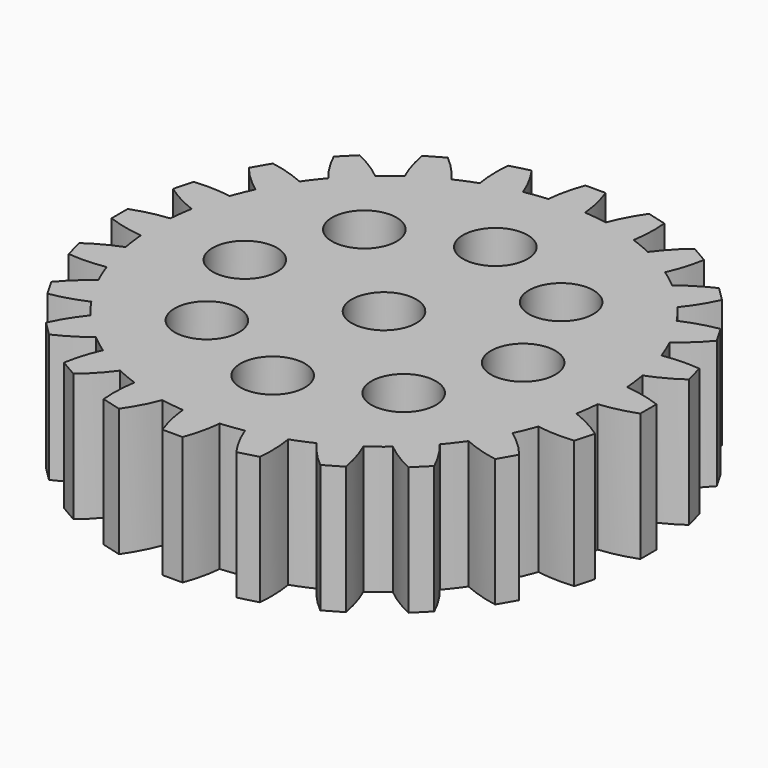
from build123d import *

# Parameters (mm, degrees)
F0_R     = 1.6
F1_DEPTH = 6.35


with BuildPart() as f1:
    # F0 (on Top) → F1 (new body)
    with BuildSketch(Plane.XY):
        with BuildLine():
            Line((0.5, 13.107544), (-0.5, 13.107544))
            ThreePointArc((-0.5, 13.107544), (-0.764193, 12.229191), (-0.914082, 11.324295))
            ThreePointArc((-0.914082, 11.324295), (-1.482925, 11.263931), (-2.048008, 11.175011))
            ThreePointArc((-2.048008, 11.175011), (-2.426993, 12.010279), (-2.909519, 12.790325))
            Line((-2.909519, 12.790325), (-3.875445, 12.531506))
            ThreePointArc((-3.875445, 12.531506), (-3.903302, 11.614704), (-3.813879, 10.701847))
            ThreePointArc((-3.813879, 10.701847), (-4.347715, 10.496313), (-4.870529, 10.264168))
            ThreePointArc((-4.870529, 10.264168), (-5.452785, 10.972887), (-6.12076, 11.601467))
            Line((-6.12076, 11.601467), (-6.986785, 11.101467))
            ThreePointArc((-6.986785, 11.101467), (-6.776406, 10.208693), (-6.453766, 9.350086))
            ThreePointArc((-6.453766, 9.350086), (-6.916216, 9.013388), (-7.361132, 8.65384))
            ThreePointArc((-7.361132, 8.65384), (-8.106978, 9.18771), (-8.91488, 9.621987))
            Line((-8.91488, 9.621987), (-9.621987, 8.91488))
            ThreePointArc((-9.621987, 8.91488), (-9.18771, 8.106978), (-8.65384, 7.361132))
            ThreePointArc((-8.65384, 7.361132), (-9.013388, 6.916216), (-9.350086, 6.453766))
            ThreePointArc((-9.350086, 6.453766), (-10.208693, 6.776406), (-11.101467, 6.986785))
            Line((-11.101467, 6.986785), (-11.601467, 6.12076))
            ThreePointArc((-11.601467, 6.12076), (-10.972887, 5.452785), (-10.264168, 4.870529))
            ThreePointArc((-10.264168, 4.870529), (-10.496313, 4.347715), (-10.701847, 3.813879))
            ThreePointArc((-10.701847, 3.813879), (-11.614704, 3.903302), (-12.531506, 3.875445))
            Line((-12.531506, 3.875445), (-12.790325, 2.909519))
            ThreePointArc((-12.790325, 2.909519), (-12.010279, 2.426993), (-11.175011, 2.048008))
            ThreePointArc((-11.175011, 2.048008), (-11.263931, 1.482925), (-11.324295, 0.914082))
            ThreePointArc((-11.324295, 0.914082), (-12.229191, 0.764193), (-13.107544, 0.5))
            Line((-13.107544, 0.5), (-13.107544, -0.5))
            ThreePointArc((-13.107544, -0.5), (-12.229191, -0.764193), (-11.324295, -0.914082))
            ThreePointArc((-11.324295, -0.914082), (-11.263931, -1.482925), (-11.175011, -2.048008))
            ThreePointArc((-11.175011, -2.048008), (-12.010279, -2.426993), (-12.790325, -2.909519))
            Line((-12.790325, -2.909519), (-12.531506, -3.875445))
            ThreePointArc((-12.531506, -3.875445), (-11.614704, -3.903302), (-10.701847, -3.813879))
            ThreePointArc((-10.701847, -3.813879), (-10.496313, -4.347715), (-10.264168, -4.870529))
            ThreePointArc((-10.264168, -4.870529), (-10.972887, -5.452785), (-11.601467, -6.12076))
            Line((-11.601467, -6.12076), (-11.101467, -6.986785))
            ThreePointArc((-11.101467, -6.986785), (-10.208693, -6.776406), (-9.350086, -6.453766))
            ThreePointArc((-9.350086, -6.453766), (-9.013388, -6.916216), (-8.65384, -7.361132))
            ThreePointArc((-8.65384, -7.361132), (-9.18771, -8.106978), (-9.621987, -8.91488))
            Line((-9.621987, -8.91488), (-8.91488, -9.621987))
            ThreePointArc((-8.91488, -9.621987), (-8.106978, -9.18771), (-7.361132, -8.65384))
            ThreePointArc((-7.361132, -8.65384), (-6.916216, -9.013388), (-6.453766, -9.350086))
            ThreePointArc((-6.453766, -9.350086), (-6.776406, -10.208693), (-6.986785, -11.101467))
            Line((-6.986785, -11.101467), (-6.12076, -11.601467))
            ThreePointArc((-6.12076, -11.601467), (-5.452785, -10.972887), (-4.870529, -10.264168))
            ThreePointArc((-4.870529, -10.264168), (-4.347715, -10.496313), (-3.813879, -10.701847))
            ThreePointArc((-3.813879, -10.701847), (-3.903302, -11.614704), (-3.875445, -12.531506))
            Line((-3.875445, -12.531506), (-2.909519, -12.790325))
            ThreePointArc((-2.909519, -12.790325), (-2.426993, -12.010279), (-2.048008, -11.175011))
            ThreePointArc((-2.048008, -11.175011), (-1.482925, -11.263931), (-0.914082, -11.324295))
            ThreePointArc((-0.914082, -11.324295), (-0.764193, -12.229191), (-0.5, -13.107544))
            Line((-0.5, -13.107544), (0.5, -13.107544))
            ThreePointArc((0.5, -13.107544), (0.764193, -12.229191), (0.914082, -11.324295))
            ThreePointArc((0.914082, -11.324295), (1.482925, -11.263931), (2.048008, -11.175011))
            ThreePointArc((2.048008, -11.175011), (2.426993, -12.010279), (2.909519, -12.790325))
            Line((2.909519, -12.790325), (3.875445, -12.531506))
            ThreePointArc((3.875445, -12.531506), (3.903302, -11.614704), (3.813879, -10.701847))
            ThreePointArc((3.813879, -10.701847), (4.347715, -10.496313), (4.870529, -10.264168))
            ThreePointArc((4.870529, -10.264168), (5.452785, -10.972887), (6.12076, -11.601467))
            Line((6.12076, -11.601467), (6.986785, -11.101467))
            ThreePointArc((6.986785, -11.101467), (6.776406, -10.208693), (6.453766, -9.350086))
            ThreePointArc((6.453766, -9.350086), (6.916216, -9.013388), (7.361132, -8.65384))
            ThreePointArc((7.361132, -8.65384), (8.106978, -9.18771), (8.91488, -9.621987))
            Line((8.91488, -9.621987), (9.621987, -8.91488))
            ThreePointArc((9.621987, -8.91488), (9.18771, -8.106978), (8.65384, -7.361132))
            ThreePointArc((8.65384, -7.361132), (9.013388, -6.916216), (9.350086, -6.453766))
            ThreePointArc((9.350086, -6.453766), (10.208693, -6.776406), (11.101467, -6.986785))
            Line((11.101467, -6.986785), (11.601467, -6.12076))
            ThreePointArc((11.601467, -6.12076), (10.972887, -5.452785), (10.264168, -4.870529))
            ThreePointArc((10.264168, -4.870529), (10.496313, -4.347715), (10.701847, -3.813879))
            ThreePointArc((10.701847, -3.813879), (11.614704, -3.903302), (12.531506, -3.875445))
            Line((12.531506, -3.875445), (12.790325, -2.909519))
            ThreePointArc((12.790325, -2.909519), (12.010279, -2.426993), (11.175011, -2.048008))
            ThreePointArc((11.175011, -2.048008), (11.263931, -1.482925), (11.324295, -0.914082))
            ThreePointArc((11.324295, -0.914082), (12.229191, -0.764193), (13.107544, -0.5))
            Line((13.107544, -0.5), (13.107544, 0.5))
            ThreePointArc((13.107544, 0.5), (12.229191, 0.764193), (11.324295, 0.914082))
            ThreePointArc((11.324295, 0.914082), (11.263931, 1.482925), (11.175011, 2.048008))
            ThreePointArc((11.175011, 2.048008), (12.010279, 2.426993), (12.790325, 2.909519))
            Line((12.790325, 2.909519), (12.531506, 3.875445))
            ThreePointArc((12.531506, 3.875445), (11.614704, 3.903302), (10.701847, 3.813879))
            ThreePointArc((10.701847, 3.813879), (10.496313, 4.347715), (10.264168, 4.870529))
            ThreePointArc((10.264168, 4.870529), (10.972887, 5.452785), (11.601467, 6.12076))
            Line((11.601467, 6.12076), (11.101467, 6.986785))
            ThreePointArc((11.101467, 6.986785), (10.208693, 6.776406), (9.350086, 6.453766))
            ThreePointArc((9.350086, 6.453766), (9.013388, 6.916216), (8.65384, 7.361132))
            ThreePointArc((8.65384, 7.361132), (9.18771, 8.106978), (9.621987, 8.91488))
            Line((9.621987, 8.91488), (8.91488, 9.621987))
            ThreePointArc((8.91488, 9.621987), (8.106978, 9.18771), (7.361132, 8.65384))
            ThreePointArc((7.361132, 8.65384), (6.916216, 9.013388), (6.453766, 9.350086))
            ThreePointArc((6.453766, 9.350086), (6.776406, 10.208693), (6.986785, 11.101467))
            Line((6.986785, 11.101467), (6.12076, 11.601467))
            ThreePointArc((6.12076, 11.601467), (5.452785, 10.972887), (4.870529, 10.264168))
            ThreePointArc((4.870529, 10.264168), (4.347715, 10.496313), (3.813879, 10.701847))
            ThreePointArc((3.813879, 10.701847), (3.903302, 11.614704), (3.875445, 12.531506))
            Line((3.875445, 12.531506), (2.909519, 12.790325))
            ThreePointArc((2.909519, 12.790325), (2.426993, 12.010279), (2.048008, 11.175011))
            ThreePointArc((2.048008, 11.175011), (1.482925, 11.263931), (0.914082, 11.324295))
            ThreePointArc((0.914082, 11.324295), (0.764193, 12.229191), (0.5, 13.107544))
        make_face()
        with Locations((-4.879037, -4.879037)):
            Circle(F0_R, mode=Mode.SUBTRACT)
        with Locations((0, -6.9)):
            Circle(F0_R, mode=Mode.SUBTRACT)
        with Locations((4.879037, -4.879037)):
            Circle(F0_R, mode=Mode.SUBTRACT)
        with Locations((-6.9, 0)):
            Circle(F0_R, mode=Mode.SUBTRACT)
        with Locations((-4.879037, 4.879037)):
            Circle(F0_R, mode=Mode.SUBTRACT)
        Circle(F0_R, mode=Mode.SUBTRACT)
        with Locations((4.879037, 4.879037)):
            Circle(F0_R, mode=Mode.SUBTRACT)
        with Locations((6.9, 0)):
            Circle(F0_R, mode=Mode.SUBTRACT)
        with Locations((0, 6.9)):
            Circle(F0_R, mode=Mode.SUBTRACT)
    extrude(amount=F1_DEPTH)


solid = f1.part
